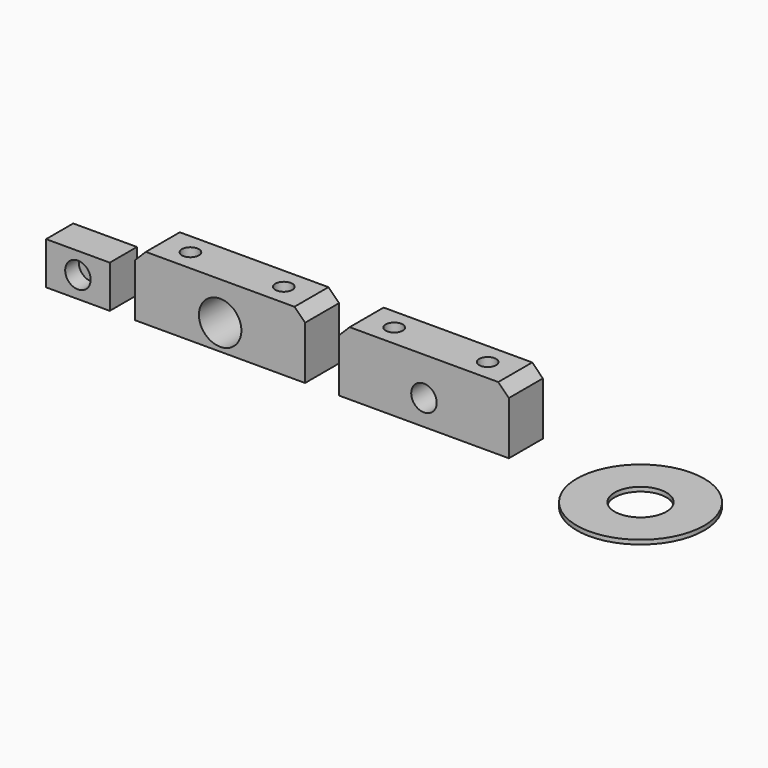
from build123d import *

# Parameters (mm, degrees)
CYLINDER001_R          = 2
CYLINDER001_DEPTH      = 22
CYLINDER002_R          = 2
CYLINDER002_DEPTH      = 22
CYLINDER_R             = 5
CYLINDER_DEPTH         = 13
CYLINDER_ROLL_ANGLE    = 90
BOX_W                  = 40
BOX_H                  = 10
BOX_DEPTH              = 15
CHAMFER_SIZE           = 2.5
CYLINDER004_R          = 2
CYLINDER004_DEPTH      = 22
CYLINDER005_R          = 2
CYLINDER005_DEPTH      = 22
CYLINDER003_R          = 3
CYLINDER003_DEPTH      = 13
CYLINDER003_ROLL_ANGLE = 90
BOX001_W               = 40
BOX001_H               = 10
BOX001_DEPTH           = 15
CHAMFER001_SIZE        = 2.5
CYLINDER007_R          = 6.1
CYLINDER007_DEPTH      = 1
CYLINDER006_R          = 15
CYLINDER006_DEPTH      = 1
CYLINDER008_R          = 3
CYLINDER008_DEPTH      = 10
CYLINDER008_ROLL_ANGLE = 90
BOX002_W               = 15
BOX002_H               = 8
BOX002_DEPTH           = 10


with BuildPart() as cylinder001:
    # Cylinder001 → Cylinder001 (new body)
    with BuildSketch(Plane(origin=(9, 5, 0), x_dir=(1, 0, 0), z_dir=(0, 0, 1))):
        Circle(CYLINDER001_R)
    extrude(amount=CYLINDER001_DEPTH)


with BuildPart() as fusion:
    # Cylinder002 → Cylinder002 (new body)
    with BuildSketch(Plane(origin=(31, 5, 0), x_dir=(1, 0, 0), z_dir=(0, 0, 1))):
        Circle(CYLINDER002_R)
    extrude(amount=CYLINDER002_DEPTH)

    # Fusion: union Cylinder001
    add(cylinder001.part)


with BuildPart() as cylinder:
    # Cylinder → Cylinder (new body)
    with BuildSketch(Plane.XY):
        Circle(CYLINDER_R)
    extrude(amount=CYLINDER_DEPTH)


with BuildPart() as cylinder_1:
    # Cylinder roll: moved
    add(cylinder.part.rotate(Axis((0, 0, 0), (1, 0, 0)), CYLINDER_ROLL_ANGLE))


with BuildPart() as cylinder_2:
    # Cylinder placement: moved
    add(cylinder_1.part.moved(Location((20, 11, 6))))


with BuildPart() as chamfer_body:
    # Box → Box (new body)
    with BuildSketch(Plane.XY):
        with Locations((20, 5)):
            Rectangle(BOX_W, BOX_H)
    extrude(amount=BOX_DEPTH)

    # Cut: cut Cylinder
    add(cylinder_2.part, mode=Mode.SUBTRACT)

    # Cut001: cut Fusion
    add(fusion.part, mode=Mode.SUBTRACT)

    # Chamfer
    chamfer_edges = [chamfer_body.edges().sort_by_distance(p)[0] for p in [
        (0, 5, 15),
        (40, 5, 15),
    ]]
    chamfer(chamfer_edges, length=CHAMFER_SIZE)


with BuildPart() as chamfer_body_1:
    # Chamfer placement: moved
    add(chamfer_body.part.moved(Location((21, 0, 0))))


with BuildPart() as cylinder004:
    # Cylinder004 → Cylinder004 (new body)
    with BuildSketch(Plane(origin=(9, 5, 0), x_dir=(1, 0, 0), z_dir=(0, 0, 1))):
        Circle(CYLINDER004_R)
    extrude(amount=CYLINDER004_DEPTH)


with BuildPart() as fusion001:
    # Cylinder005 → Cylinder005 (new body)
    with BuildSketch(Plane(origin=(31, 5, 0), x_dir=(1, 0, 0), z_dir=(0, 0, 1))):
        Circle(CYLINDER005_R)
    extrude(amount=CYLINDER005_DEPTH)

    # Fusion001: union Cylinder004
    add(cylinder004.part)


with BuildPart() as cylinder003:
    # Cylinder003 → Cylinder003 (new body)
    with BuildSketch(Plane.XY):
        Circle(CYLINDER003_R)
    extrude(amount=CYLINDER003_DEPTH)


with BuildPart() as cylinder003_1:
    # Cylinder003 roll: moved
    add(cylinder003.part.rotate(Axis((0, 0, 0), (1, 0, 0)), CYLINDER003_ROLL_ANGLE))


with BuildPart() as cylinder003_2:
    # Cylinder003 placement: moved
    add(cylinder003_1.part.moved(Location((20, 11, 6))))


with BuildPart() as chamfer_eje_del_motor:
    # Box001 → Box001 (new body)
    with BuildSketch(Plane.XY):
        with Locations((20, 5)):
            Rectangle(BOX001_W, BOX001_H)
    extrude(amount=BOX001_DEPTH)

    # Cut002: cut Cylinder003
    add(cylinder003_2.part, mode=Mode.SUBTRACT)

    # Cut003: cut Fusion001
    add(fusion001.part, mode=Mode.SUBTRACT)

    # Chamfer001
    chamfer001_edges = [chamfer_eje_del_motor.edges().sort_by_distance(p)[0] for p in [
        (0, 5, 15),
        (40, 5, 15),
    ]]
    chamfer(chamfer001_edges, length=CHAMFER001_SIZE)


with BuildPart() as chamfer_eje_del_motor_1:
    # Chamfer001 placement: moved
    add(chamfer_eje_del_motor.part.moved(Location((69, 0, 0))))


with BuildPart() as cylinder007:
    # Cylinder007 → Cylinder007 (new body)
    with BuildSketch(Plane(origin=(140, 0, 0), x_dir=(1, 0, 0), z_dir=(0, 0, 1))):
        Circle(CYLINDER007_R)
    extrude(amount=CYLINDER007_DEPTH)


with BuildPart() as arandela_motor:
    # Cylinder006 → Cylinder006 (new body)
    with BuildSketch(Plane(origin=(140, 0, 0), x_dir=(1, 0, 0), z_dir=(0, 0, 1))):
        Circle(CYLINDER006_R)
    extrude(amount=CYLINDER006_DEPTH)

    # Cut004: cut Cylinder007
    add(cylinder007.part, mode=Mode.SUBTRACT)


with BuildPart() as cylinder008:
    # Cylinder008 → Cylinder008 (new body)
    with BuildSketch(Plane.XY):
        Circle(CYLINDER008_R)
    extrude(amount=CYLINDER008_DEPTH)


with BuildPart() as cylinder008_1:
    # Cylinder008 roll: moved
    add(cylinder008.part.rotate(Axis((0, 0, 0), (1, 0, 0)), CYLINDER008_ROLL_ANGLE))


with BuildPart() as cylinder008_2:
    # Cylinder008 placement: moved
    add(cylinder008_1.part.moved(Location((7.5, -46, 5))))


with BuildPart() as obj1:
    # Box002 → Box002 (new body)
    with BuildSketch(Plane(origin=(0, -50, 0), x_dir=(1, 0, 0), z_dir=(0, 0, 1))):
        with Locations((7.5, 4)):
            Rectangle(BOX002_W, BOX002_H)
    extrude(amount=BOX002_DEPTH)

    # Cut005: cut Cylinder008
    add(cylinder008_2.part, mode=Mode.SUBTRACT)


with BuildPart() as obj1_1:
    # Cut005 placement: moved
    add(obj1.part.moved(Location((0, 50, 0))))


solid = Compound([chamfer_body_1.part, chamfer_eje_del_motor_1.part, arandela_motor.part, obj1_1.part])
